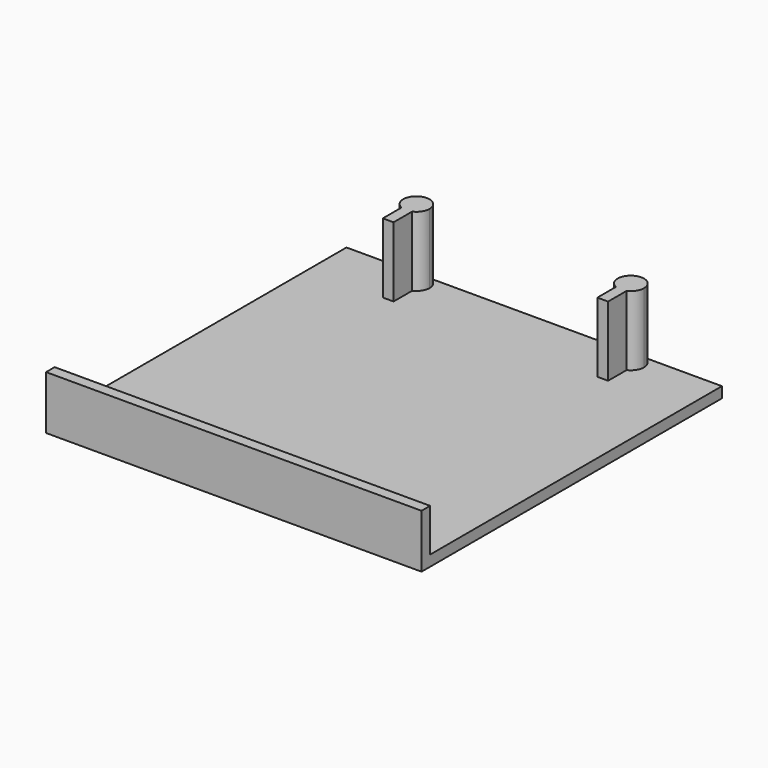
from build123d import *

# Parameters (mm, degrees)
F1_DEPTH = 15
F0_W     = 70
F0_H     = 2
F2_DEPTH = 2
F3_DEPTH = 10


with BuildPart() as f1:
    # F0 (on Top) → F1 (new body)
    with BuildSketch(Plane.XY):
        with BuildLine():
            ThreePointArc((-17.55, 32.55), (-18.267588, 34.282412), (-20, 35))
            ThreePointArc((-20, 35), (-22.396063, 33.061255), (-21, 30.313373))
            ThreePointArc((-21, 30.313373), (-20, 30.1), (-19, 30.313373))
            ThreePointArc((-19, 30.313373), (-17.944215, 31.21724), (-17.55, 32.55))
        make_face()
        with BuildLine():
            ThreePointArc((-19, 30.313373), (-20, 30.1), (-21, 30.313373))
            Line((-21, 30.313373), (-21, 25.974735))
            Line((-21, 25.974735), (-19, 25.974735))
            Line((-19, 25.974735), (-19, 30.313373))
        make_face()
        with BuildLine():
            ThreePointArc((21, 30.28943), (22.055785, 31.193297), (22.45, 32.526057))
            ThreePointArc((22.45, 32.526057), (18.66724, 34.581842), (19, 30.28943))
            ThreePointArc((19, 30.28943), (20, 30.076057), (21, 30.28943))
        make_face()
        with BuildLine():
            ThreePointArc((21, 30.28943), (20, 30.076057), (19, 30.28943))
            Line((19, 30.28943), (19, 25.974735))
            Line((19, 25.974735), (21, 25.974735))
            Line((21, 25.974735), (21, 30.28943))
        make_face()
    extrude(amount=F1_DEPTH)


with BuildPart() as f2:
    # F0 (on Top) → F2 (new body)
    with BuildSketch(Plane.XY):
        Polygon((-20, 35), (-35, 35), (-35, -33), (35, -33), (35, 35), align=None)
        with BuildLine():
            ThreePointArc((-21, 30.313373), (-22.396063, 33.061255), (-20, 35))
            ThreePointArc((-20, 35), (-18.267588, 34.282412), (-17.55, 32.55))
            ThreePointArc((-17.55, 32.55), (-17.944215, 31.21724), (-19, 30.313373))
            Line((-19, 30.313373), (-19, 25.974735))
            Line((-19, 25.974735), (-21, 25.974735))
            Line((-21, 25.974735), (-21, 30.313373))
        make_face(mode=Mode.SUBTRACT)
        with BuildLine():
            ThreePointArc((19, 30.28943), (18.66724, 34.581842), (22.45, 32.526057))
            ThreePointArc((22.45, 32.526057), (22.055785, 31.193297), (21, 30.28943))
            Line((21, 30.28943), (21, 25.974735))
            Line((21, 25.974735), (19, 25.974735))
            Line((19, 25.974735), (19, 30.28943))
        make_face(mode=Mode.SUBTRACT)
        with BuildLine():
            ThreePointArc((-19, 30.313373), (-20, 30.1), (-21, 30.313373))
            Line((-21, 30.313373), (-21, 25.974735))
            Line((-21, 25.974735), (-19, 25.974735))
            Line((-19, 25.974735), (-19, 30.313373))
        make_face()
        with BuildLine():
            ThreePointArc((-17.55, 32.55), (-18.267588, 34.282412), (-20, 35))
            ThreePointArc((-20, 35), (-22.396063, 33.061255), (-21, 30.313373))
            ThreePointArc((-21, 30.313373), (-20, 30.1), (-19, 30.313373))
            ThreePointArc((-19, 30.313373), (-17.944215, 31.21724), (-17.55, 32.55))
        make_face()
        with BuildLine():
            ThreePointArc((21, 30.28943), (22.055785, 31.193297), (22.45, 32.526057))
            ThreePointArc((22.45, 32.526057), (18.66724, 34.581842), (19, 30.28943))
            ThreePointArc((19, 30.28943), (20, 30.076057), (21, 30.28943))
        make_face()
        with BuildLine():
            ThreePointArc((21, 30.28943), (20, 30.076057), (19, 30.28943))
            Line((19, 30.28943), (19, 25.974735))
            Line((19, 25.974735), (21, 25.974735))
            Line((21, 25.974735), (21, 30.28943))
        make_face()
        with Locations((0, -34)):
            Rectangle(F0_W, F0_H)
    extrude(amount=F2_DEPTH)

    # F0 (on Top) → F3 (join)
    with BuildSketch(Plane.XY):
        with Locations((0, -34)):
            Rectangle(F0_W, F0_H)
    extrude(amount=F3_DEPTH)


solid = Compound([f1.part, f2.part])
